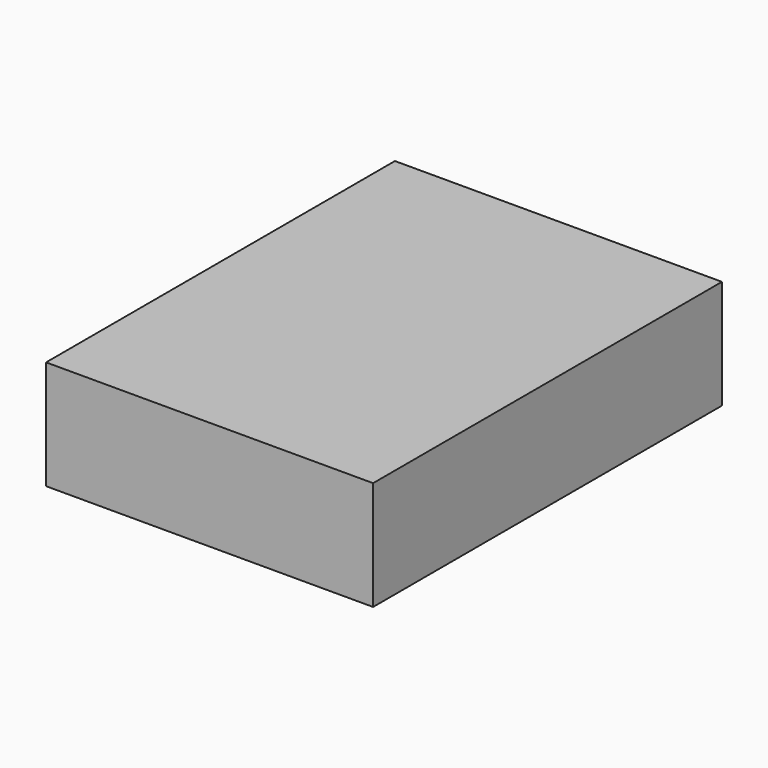
from build123d import *

# Parameters (mm, degrees)
BOX007_W               = 150
BOX007_H               = 200
BOX007_DEPTH           = 50
BOX006_W               = 25
BOX006_H               = 40
BOX006_DEPTH           = 4
BOX006_ROLL_ANGLE      = 45
BOX006_PLACEMENT_ANGLE = 90
BOX005_W               = 25
BOX005_H               = 40
BOX005_DEPTH           = 4
BOX005_ROLL_ANGLE      = 45
BOX005_PLACEMENT_ANGLE = 90
CYLINDER014_R          = 4
CYLINDER014_DEPTH      = 20
CYLINDER015_R          = 4
CYLINDER015_DEPTH      = 20
CYLINDER016_R          = 4
CYLINDER016_DEPTH      = 20
CYLINDER011_R          = 2
CYLINDER011_DEPTH      = 30
CYLINDER012_R          = 2
CYLINDER012_DEPTH      = 30
CYLINDER013_R          = 2
CYLINDER013_DEPTH      = 30
CYLINDER009_R          = 4
CYLINDER009_DEPTH      = 10
CYLINDER010_R          = 4
CYLINDER010_DEPTH      = 10
CYLINDER008_R          = 4
CYLINDER008_DEPTH      = 10
BOX001_W               = 70
BOX001_H               = 20
BOX001_DEPTH           = 20
BOX_W                  = 91
BOX_H                  = 56
BOX_DEPTH              = 20
BOX002_W               = 10.5
BOX002_H               = 35
BOX002_DEPTH           = 17
CYLINDER006_R          = 3.65
CYLINDER006_DEPTH      = 10
BOX003_W               = 75
BOX003_H               = 150
BOX003_DEPTH           = 25
FILLET_R               = 5
FILLET001_R            = 5
FILLET002_R            = 5
FILLET003_R            = 5
FILLET004_R            = 5
FILLET005_R            = 5
CYLINDER003_R          = 8.75
CYLINDER003_DEPTH      = 40
CYLINDER002_R          = 2
CYLINDER002_DEPTH      = 10
ARRAY_COUNT            = 3
CYLINDER001_R          = 2.25
CYLINDER001_DEPTH      = 5
CYLINDER_R             = 35
CYLINDER_DEPTH         = 18
CYLINDER004_R          = 35
CYLINDER004_DEPTH      = 25
CYLINDER005_R          = 8.75
CYLINDER005_DEPTH      = 40
CYLINDER007_R          = 10.75
CYLINDER007_DEPTH      = 40
BOX004_W               = 99
BOX004_H               = 150
BOX004_DEPTH           = 32
FILLET006_R            = 3


with BuildPart() as cube001:
    # Box007 → Box007 (new body)
    with BuildSketch(Plane(origin=(-63, -126, 0), x_dir=(1, 0, 0), z_dir=(0, 0, 1))):
        with Locations((75, 100)):
            Rectangle(BOX007_W, BOX007_H)
    extrude(amount=BOX007_DEPTH)


with BuildPart() as slot2:
    # Box006 → Box006 (new body)
    with BuildSketch(Plane.XY):
        with Locations((12.5, 20)):
            Rectangle(BOX006_W, BOX006_H)
    extrude(amount=BOX006_DEPTH)


with BuildPart() as slot2_1:
    # Box006 roll: moved
    add(slot2.part.rotate(Axis((0, 0, 0), (1, 0, 0)), BOX006_ROLL_ANGLE))


with BuildPart() as slot2_2:
    # Box006 placement: moved
    add(slot2_1.part.moved(Location((-37.422836, -44, -17.67767))).rotate(Axis((-37.422836, -44, -17.67767), (0, 0, 1)), BOX006_PLACEMENT_ANGLE))


with BuildPart() as part_mirroring:
    # Part__Mirroring: instance of Slot2
    add(slot2_2.part.mirror(Plane(origin=(0, 0, 0), x_dir=(0, -1, 0), z_dir=(1, 0, 0))))


with BuildPart() as part_mirroring_1:
    # Part__Mirroring placement: moved
    add(part_mirroring.part.moved(Location((0, -7, 0))))


with BuildPart() as strapslots:
    # Box005 → Box005 (new body)
    with BuildSketch(Plane.XY):
        with Locations((12.5, 20)):
            Rectangle(BOX005_W, BOX005_H)
    extrude(amount=BOX005_DEPTH)


with BuildPart() as strapslots_1:
    # Box005 roll: moved
    add(strapslots.part.rotate(Axis((0, 0, 0), (1, 0, 0)), BOX005_ROLL_ANGLE))


with BuildPart() as strapslots_2:
    # Box005 placement: moved
    add(strapslots_1.part.moved(Location((-37.422836, -51, -17.67767))).rotate(Axis((-37.422836, -51, -17.67767), (0, 0, 1)), BOX005_PLACEMENT_ANGLE))

    # Fusion011: union Part__Mirroring
    add(part_mirroring_1.part)


with BuildPart() as cylinder009:
    # Cylinder014 → Cylinder014 (new body)
    with BuildSketch(Plane(origin=(37.5, -21, 10), x_dir=(1, 0, 0), z_dir=(0, 0, 1))):
        Circle(CYLINDER014_R)
    extrude(amount=CYLINDER014_DEPTH)


with BuildPart() as cylinder010:
    # Cylinder015 → Cylinder015 (new body)
    with BuildSketch(Plane(origin=(37.5, 23, 10), x_dir=(1, 0, 0), z_dir=(0, 0, 1))):
        Circle(CYLINDER015_R)
    extrude(amount=CYLINDER015_DEPTH)


with BuildPart() as mounting002:
    # Cylinder016 → Cylinder016 (new body)
    with BuildSketch(Plane(origin=(-41.5, -1, 10), x_dir=(1, 0, 0), z_dir=(0, 0, 1))):
        Circle(CYLINDER016_R)
    extrude(amount=CYLINDER016_DEPTH)

    # Fusion008: union Cylinder009, Cylinder010
    add(cylinder009.part)
    add(cylinder010.part)


with BuildPart() as mounting002_1:
    # Fusion008 placement: moved
    add(mounting002.part.moved(Location((0, 0, -32))))


with BuildPart() as cylinder006:
    # Cylinder011 → Cylinder011 (new body)
    with BuildSketch(Plane(origin=(37.5, -21, 10), x_dir=(1, 0, 0), z_dir=(0, 0, 1))):
        Circle(CYLINDER011_R)
    extrude(amount=CYLINDER011_DEPTH)


with BuildPart() as cylinder007:
    # Cylinder012 → Cylinder012 (new body)
    with BuildSketch(Plane(origin=(37.5, 23, 10), x_dir=(1, 0, 0), z_dir=(0, 0, 1))):
        Circle(CYLINDER012_R)
    extrude(amount=CYLINDER012_DEPTH)


with BuildPart() as bottommounting:
    # Cylinder013 → Cylinder013 (new body)
    with BuildSketch(Plane(origin=(-41.5, -1, 10), x_dir=(1, 0, 0), z_dir=(0, 0, 1))):
        Circle(CYLINDER013_R)
    extrude(amount=CYLINDER013_DEPTH)

    # Fusion007: union Cylinder006, Cylinder007
    add(cylinder006.part)
    add(cylinder007.part)


with BuildPart() as bottommounting_1:
    # Fusion007 placement: moved
    add(bottommounting.part.moved(Location((0, 0, -30))))

    # Fusion009: union Mounting002
    add(mounting002_1.part)


with BuildPart() as cylinder004:
    # Cylinder009 → Cylinder009 (new body)
    with BuildSketch(Plane(origin=(37.5, -21, 10), x_dir=(1, 0, 0), z_dir=(0, 0, 1))):
        Circle(CYLINDER009_R)
    extrude(amount=CYLINDER009_DEPTH)


with BuildPart() as cylinder005:
    # Cylinder010 → Cylinder010 (new body)
    with BuildSketch(Plane(origin=(37.5, 23, 10), x_dir=(1, 0, 0), z_dir=(0, 0, 1))):
        Circle(CYLINDER010_R)
    extrude(amount=CYLINDER010_DEPTH)


with BuildPart() as combinedmounting:
    # Cylinder008 → Cylinder008 (new body)
    with BuildSketch(Plane(origin=(-41.5, -1, 10), x_dir=(1, 0, 0), z_dir=(0, 0, 1))):
        Circle(CYLINDER008_R)
    extrude(amount=CYLINDER008_DEPTH)

    # Fusion006: union Cylinder004, Cylinder005
    add(cylinder004.part)
    add(cylinder005.part)

    # Fusion010: union BottomMounting
    add(bottommounting_1.part)


with BuildPart() as wiringpocket:
    # Box001 → Box001 (new body)
    with BuildSketch(Plane(origin=(-35, -53, 0), x_dir=(1, 0, 0), z_dir=(0, 0, 1))):
        with Locations((35, 10)):
            Rectangle(BOX001_W, BOX001_H)
    extrude(amount=BOX001_DEPTH)


with BuildPart() as electronicspocket:
    # Box → Box (new body)
    with BuildSketch(Plane(origin=(-45.5, -106, 0), x_dir=(1, 0, 0), z_dir=(0, 0, 1))):
        with Locations((45.5, 28)):
            Rectangle(BOX_W, BOX_H)
    extrude(amount=BOX_DEPTH)

    # Fusion: union WiringPocket
    add(wiringpocket.part)


with BuildPart() as electronicspocket_1:
    # Fusion placement: moved
    add(electronicspocket.part.moved(Location((0, 5, 0))))


with BuildPart() as potentiometer:
    # Box002 → Box002 (new body)
    with BuildSketch(Plane(origin=(-30, 18, 5.5), x_dir=(1, 0, 0), z_dir=(0, 0, 1))):
        with Locations((5.25, 17.5)):
            Rectangle(BOX002_W, BOX002_H)
    extrude(amount=BOX002_DEPTH)


with BuildPart() as potpocket:
    # Cylinder006 → Cylinder006 (new body)
    with BuildSketch(Plane(origin=(-24.75, 60.5, 11), x_dir=(1, 0, 0), z_dir=(0, -1, 0))):
        Circle(CYLINDER006_R)
    extrude(amount=CYLINDER006_DEPTH)

    # Fusion001: union Potentiometer
    add(potentiometer.part)


with BuildPart() as potpocket_1:
    # Fusion001 placement: moved
    add(potpocket.part.moved(Location((-3.5, -10, -2.5))))


with BuildPart() as batterypocket:
    # Box003 → Box003 (new body)
    with BuildSketch(Plane(origin=(-37.5, -101, -29), x_dir=(1, 0, 0), z_dir=(0, 0, 1))):
        with Locations((37.5, 75)):
            Rectangle(BOX003_W, BOX003_H)
    extrude(amount=BOX003_DEPTH)

    # Fillet
    fillet_edges = [batterypocket.edges().sort_by_distance(p)[0] for p in [
        (-37.5, -26, -4),
    ]]
    fillet(fillet_edges, radius=FILLET_R)

    # Fillet001
    fillet001_edges = [batterypocket.edges().sort_by_distance(p)[0] for p in [
        (-37.5, -26, -29),
    ]]
    fillet(fillet001_edges, radius=FILLET001_R)

    # Fillet002
    fillet002_edges = [batterypocket.edges().sort_by_distance(p)[0] for p in [
        (37.5, -26, -29),
    ]]
    fillet(fillet002_edges, radius=FILLET002_R)

    # Fillet003
    fillet003_edges = [batterypocket.edges().sort_by_distance(p)[0] for p in [
        (37.5, -26, -4),
    ]]
    fillet(fillet003_edges, radius=FILLET003_R)

    # Fillet004
    fillet004_edges = [batterypocket.edges().sort_by_distance(p)[0] for p in [
        (0, 49, -29),
    ]]
    fillet(fillet004_edges, radius=FILLET004_R)

    # Fillet005
    fillet005_edges = [batterypocket.edges().sort_by_distance(p)[0] for p in [
        (37.5, -101, -16.5),
        (0, -101, -4),
        (0, -101, -29),
        (-37.5, -101, -16.5),
    ]]
    fillet(fillet005_edges, radius=FILLET005_R)


with BuildPart() as obj1:
    # Cone → Cone (revolve)
    with BuildSketch(Plane(origin=(0, 0, 22.5), x_dir=(1, 0, 0), z_dir=(0, -1, 0))):
        Polygon((0, 0), (27.25, 0), (27.15, 13), (0, 13), align=None)
    revolve(axis=Axis((0, 0, 22.5), (0, 0, 1)))


with BuildPart() as bloweroutlet:
    # Cylinder003 → Cylinder003 (new body)
    with BuildSketch(Plane(origin=(20, 36.3, 13.5), x_dir=(1, 0, 0), z_dir=(0, -1, 0))):
        Circle(CYLINDER003_R)
    extrude(amount=CYLINDER003_DEPTH)


with BuildPart() as blowerfeet:
    # Cylinder002 → Cylinder002 (new body)
    with BuildSketch(Plane(origin=(0, -28.4, 0), x_dir=(1, 0, 0), z_dir=(0, 0, 1))):
        Circle(CYLINDER002_R)
    extrude(amount=CYLINDER002_DEPTH)

    # Array: BlowerFeet ×3 about axis
    array_axis = Axis((0, 0, 0), (0, 0, 1))


with BuildPart() as blowerfeet_1:
    add(blowerfeet.part)
    for i in range(1, ARRAY_COUNT):
        add(blowerfeet.part.rotate(array_axis, i * 360 / ARRAY_COUNT))


with BuildPart() as blowerendbearing:
    # Cylinder001 → Cylinder001 (new body)
    with BuildSketch(Plane.XY.offset(1)):
        Circle(CYLINDER001_R)
    extrude(amount=CYLINDER001_DEPTH)


with BuildPart() as blowerbody:
    # Cylinder → Cylinder (new body)
    with BuildSketch(Plane.XY.offset(4.5)):
        Circle(CYLINDER_R)
    extrude(amount=CYLINDER_DEPTH)


with BuildPart() as blowerpocket:
    # Cylinder004 → Cylinder004 (new body)
    with BuildSketch(Plane.XY):
        Circle(CYLINDER004_R)
    extrude(amount=CYLINDER004_DEPTH)

    # Fusion003: union obj1, BlowerOutlet, BlowerFeet, BlowerEndbearing, BlowerBody
    add(obj1.part)
    add(bloweroutlet.part)
    add(blowerfeet_1.part)
    add(blowerendbearing.part)
    add(blowerbody.part)


with BuildPart() as combinedpocket:
    # Cylinder005 → Cylinder005 (new body)
    with BuildSketch(Plane(origin=(20, 65.3, 13.5), x_dir=(1, 0, 0), z_dir=(0, -1, 0))):
        Circle(CYLINDER005_R)
    extrude(amount=CYLINDER005_DEPTH)

    # Fusion004: union ElectronicsPocket, PotPocket, BatteryPocket, BlowerPocket
    add(electronicspocket_1.part)
    add(potpocket_1.part)
    add(batterypocket.part)
    add(blowerpocket.part)


with BuildPart() as housingoutlet:
    # Cylinder007 → Cylinder007 (new body)
    with BuildSketch(Plane(origin=(20, 59.3, 13.5), x_dir=(1, 0, 0), z_dir=(0, -1, 0))):
        Circle(CYLINDER007_R)
    extrude(amount=CYLINDER007_DEPTH)


with BuildPart() as housingblock:
    # Box004 → Box004 (new body)
    with BuildSketch(Plane(origin=(-49.5, -105, -12), x_dir=(1, 0, 0), z_dir=(0, 0, 1))):
        with Locations((49.5, 75)):
            Rectangle(BOX004_W, BOX004_H)
    extrude(amount=BOX004_DEPTH)


with BuildPart() as fillet006:
    # Cone001 → Cone001 (revolve)
    with BuildSketch(Plane(origin=(20, 65.3, 13.5), x_dir=(-1, 0, 0), z_dir=(0, 0, 1))):
        Polygon((0, 0), (10.92, 0), (11.19, 21), (0, 21), align=None)
    revolve(axis=Axis((20, 65.3, 13.5), (0, -1, 0)))

    # Fusion005: union HousingOutlet, HousingBlock
    add(housingoutlet.part)
    add(housingblock.part)

    # Cut: cut CombinedPocket
    add(combinedpocket.part, mode=Mode.SUBTRACT)

    # Cut001: cut CombinedMounting
    add(combinedmounting.part, mode=Mode.SUBTRACT)

    # Cut002: cut StrapSlots
    add(strapslots_2.part, mode=Mode.SUBTRACT)

    # Fillet006
    fillet006_edges = [fillet006.edges().sort_by_distance(p)[0] for p in [
        (-49.5, 45, 4),
        (49.5, 45, 4),
        (-49.5, -105, 4),
        (-49.5, -30, -12),
        (0, -105, -12),
        (49.5, -105, 4),
        (49.5, -30, -12),
    ]]
    fillet(fillet006_edges, radius=FILLET006_R)


solid = Compound([cube001.part, fillet006.part])
